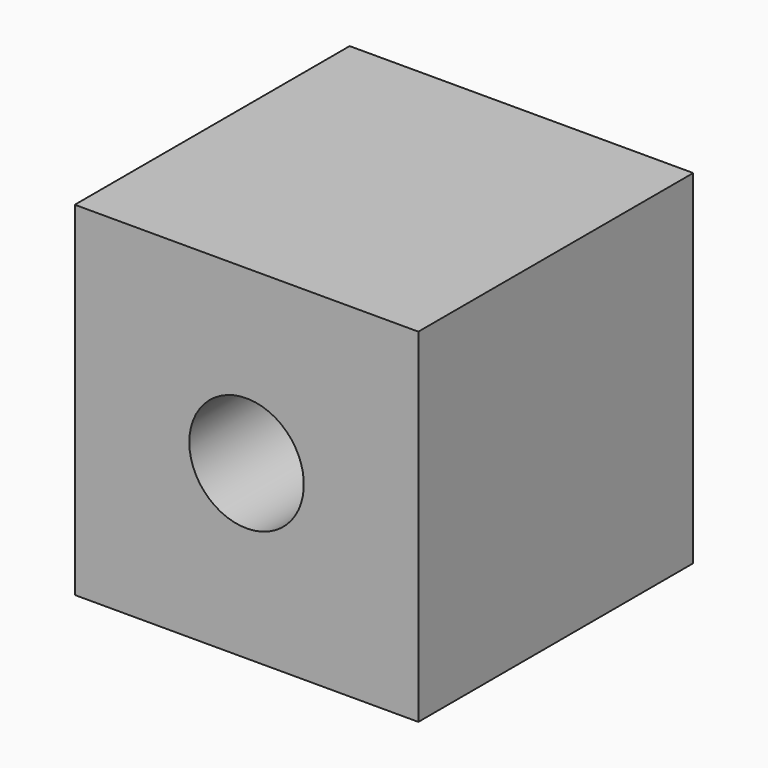
from build123d import *

# Parameters (mm, degrees)
F0_W     = 30
F0_H     = 30
F1_DEPTH = 30
F2_R     = 5
F3_DEPTH = 30.001


with BuildPart() as f1:
    # F0 (on Top) → F1 (new body)
    with BuildSketch(Plane.XY):
        Rectangle(F0_W, F0_H)
    extrude(amount=F1_DEPTH)

    # F2 (on face) → F3 (cut, through all)
    with BuildSketch(Plane(origin=(0, 15, 0), x_dir=(-1, 0, 0), z_dir=(0, 1, 0))):
        with Locations((0, 15)):
            Circle(F2_R)
    extrude(amount=-F3_DEPTH, mode=Mode.SUBTRACT)


solid = f1.part
